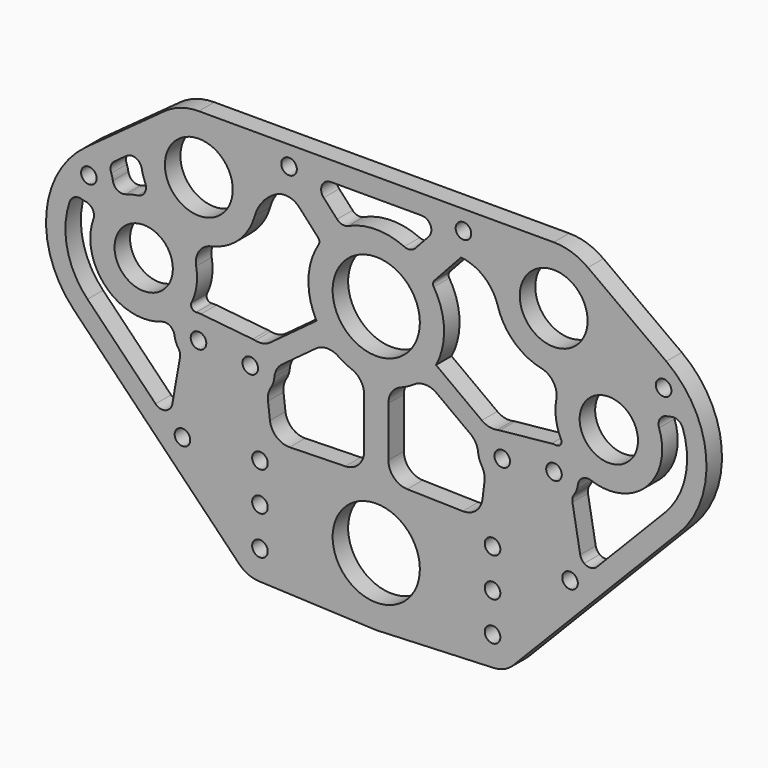
from build123d import *

# Parameters (mm, degrees)
F0_R     = 2.5527
F0_R_2   = 14.2875
F0_R_3   = 9.5504
F0_R_4   = 11.1125
F1_DEPTH = 6.35
F3_DEPTH = 6.351
F4_R     = 6.35


with BuildPart() as f1:
    # F0 (on Front) → F1 (new body)
    with BuildSketch(Plane.XZ):
        with BuildLine():
            Line((-99.147001, 36.428507), (-44.929465, -19.339581))
            ThreePointArc((-44.929465, -19.339581), (-41.990137, -21.394392), (-38.499317, -22.216626))
            Line((-38.499317, -22.216626), (-0.931741, -23.792961))
            ThreePointArc((-0.931741, -23.792961), (0, -23.8125), (0.931741, -23.792961))
            Line((0.931741, -23.792961), (38.499317, -22.216626))
            ThreePointArc((38.499317, -22.216626), (41.990137, -21.394392), (44.929465, -19.339581))
            Line((44.929465, -19.339581), (99.147001, 36.428507))
            ThreePointArc((99.147001, 36.428507), (108.088235, 61.457145), (95.037742, 84.610178))
            Line((95.037742, 84.610178), (69.349048, 103.313963))
            ThreePointArc((69.349048, 103.313963), (64.032071, 106.028196), (58.136106, 106.963559))
            Line((58.136106, 106.963559), (-58.136106, 106.963559))
            ThreePointArc((-58.136106, 106.963559), (-64.032071, 106.028196), (-69.349048, 103.313963))
            Line((-69.349048, 103.313963), (-95.037742, 84.610178))
            ThreePointArc((-95.037742, 84.610178), (-108.088235, 61.457145), (-99.147001, 36.428507))
        make_face()
        with Locations((-38.1, -12.7)):
            Circle(F0_R, mode=Mode.SUBTRACT)
        with Locations((-38.1, 0)):
            Circle(F0_R, mode=Mode.SUBTRACT)
        with Locations((0, -1.5875)):
            Circle(F0_R_2, mode=Mode.SUBTRACT)
        with Locations((-63.5, 11.149014)):
            Circle(F0_R, mode=Mode.SUBTRACT)
        with Locations((-58.239488, 40.776988)):
            Circle(F0_R, mode=Mode.SUBTRACT)
        with Locations((-38.1, 12.7)):
            Circle(F0_R, mode=Mode.SUBTRACT)
        with Locations((-41.275, 39.0525)):
            Circle(F0_R, mode=Mode.SUBTRACT)
        with Locations((38.1, -12.7)):
            Circle(F0_R, mode=Mode.SUBTRACT)
        with Locations((38.1, 0)):
            Circle(F0_R, mode=Mode.SUBTRACT)
        with Locations((38.1, 12.7)):
            Circle(F0_R, mode=Mode.SUBTRACT)
        with Locations((41.275, 39.0525)):
            Circle(F0_R, mode=Mode.SUBTRACT)
        with Locations((63.5, 11.149014)):
            Circle(F0_R, mode=Mode.SUBTRACT)
        with Locations((58.239488, 40.776988)):
            Circle(F0_R, mode=Mode.SUBTRACT)
        with Locations((-76.2, 58.7375)):
            Circle(F0_R_3, mode=Mode.SUBTRACT)
        with Locations((0, 69.5325)):
            Circle(F0_R_2, mode=Mode.SUBTRACT)
        with Locations((-94.160512, 76.698012)):
            Circle(F0_R, mode=Mode.SUBTRACT)
        with Locations((-58.136106, 87.913559)):
            Circle(F0_R_4, mode=Mode.SUBTRACT)
        with Locations((-28.575, 100.613559)):
            Circle(F0_R, mode=Mode.SUBTRACT)
        with Locations((76.2, 58.7375)):
            Circle(F0_R_3, mode=Mode.SUBTRACT)
        with Locations((28.575, 100.613559)):
            Circle(F0_R, mode=Mode.SUBTRACT)
        with Locations((58.136106, 87.913559)):
            Circle(F0_R_4, mode=Mode.SUBTRACT)
        with Locations((94.160512, 76.698012)):
            Circle(F0_R, mode=Mode.SUBTRACT)
    extrude(amount=F1_DEPTH)

    # F2 (on face) → F3 (cut, through all)
    with BuildSketch(Plane.XZ.offset(6.35)):
        with BuildLine():
            ThreePointArc((-54.105932, 69.294746), (-58.049456, 66.605722), (-59.00587, 61.929451))
            ThreePointArc((-59.00587, 61.929451), (-58.879386, 56.324414), (-60.533091, 50.967391))
            ThreePointArc((-60.533091, 50.967391), (-60.420217, 49.364361), (-58.96566, 48.681201))
            ThreePointArc((-58.96566, 48.681201), (-58.201029, 48.714395), (-57.436755, 48.673793))
            Line((-57.436755, 48.673793), (-40.472268, 46.949305))
            ThreePointArc((-40.472268, 46.949305), (-40.064126, 46.897096), (-39.659239, 46.823808))
            ThreePointArc((-39.659239, 46.823808), (-37.008517, 46.837788), (-34.594457, 47.932702))
            Line((-34.594457, 47.932702), (-19.581242, 59.019384))
            ThreePointArc((-19.581242, 59.019384), (-22.213364, 70.251589), (-18.860298, 81.290042))
            ThreePointArc((-18.860298, 81.290042), (-18.62682, 82.277263), (-19.038805, 83.204294))
            Line((-19.038805, 83.204294), (-25.19012, 89.895086))
            ThreePointArc((-25.19012, 89.895086), (-28.745994, 91.848043), (-32.758506, 91.249687))
            ThreePointArc((-32.758506, 91.249687), (-37.182355, 87.688723), (-39.824343, 82.661717))
            ThreePointArc((-39.824343, 82.661717), (-45.118444, 74.005181), (-54.105932, 69.294746))
        make_face()
        with BuildLine():
            Line((-15.809068, 53.911233), (-33.536791, 40.819992))
            ThreePointArc((-33.536791, 40.819992), (-33.672161, 36.771984), (-35.787127, 33.317768))
            Line((-35.787127, 33.317768), (-34.131261, 19.574083))
            Line((-34.131261, 19.574083), (-3.96875, 20.280276))
            Line((-3.96875, 20.280276), (-3.96875, 47.664724))
            ThreePointArc((-3.96875, 47.664724), (-10.370402, 49.875303), (-15.809068, 53.911233))
        make_face()
        with BuildLine():
            ThreePointArc((57.436755, 48.673793), (58.201029, 48.714395), (58.96566, 48.681201))
            ThreePointArc((58.96566, 48.681201), (60.420217, 49.364361), (60.533091, 50.967391))
            ThreePointArc((60.533091, 50.967391), (58.879386, 56.324414), (59.00587, 61.929451))
            ThreePointArc((59.00587, 61.929451), (58.049456, 66.605722), (54.105932, 69.294746))
            ThreePointArc((54.105932, 69.294746), (45.118444, 74.005181), (39.824343, 82.661717))
            ThreePointArc((39.824343, 82.661717), (35.347233, 89.537174), (27.783257, 92.715645))
            Line((27.783257, 92.715645), (19.038805, 83.204294))
            ThreePointArc((19.038805, 83.204294), (18.62682, 82.277263), (18.860298, 81.290042))
            ThreePointArc((18.860298, 81.290042), (22.213364, 70.251589), (19.581242, 59.019384))
            Line((19.581242, 59.019384), (34.594457, 47.932702))
            ThreePointArc((34.594457, 47.932702), (37.008517, 46.837788), (39.659239, 46.823808))
            ThreePointArc((39.659239, 46.823808), (40.064126, 46.897096), (40.472268, 46.949305))
            Line((40.472268, 46.949305), (57.436755, 48.673793))
        make_face()
        with BuildLine():
            ThreePointArc((35.787127, 33.317768), (33.672161, 36.771984), (33.536791, 40.819992))
            Line((33.536791, 40.819992), (15.809068, 53.911233))
            ThreePointArc((15.809068, 53.911233), (10.370402, 49.875303), (3.96875, 47.664724))
            Line((3.96875, 47.664724), (3.96875, 20.280276))
            Line((3.96875, 20.280276), (34.131261, 19.574083))
            Line((34.131261, 19.574083), (35.787127, 33.317768))
        make_face()
        with BuildLine():
            ThreePointArc((-12.823929, 90.517836), (-11.120177, 89.555548), (-9.175788, 89.774919))
            ThreePointArc((-9.175788, 89.774919), (0, 91.7575), (9.175788, 89.774919))
            ThreePointArc((9.175788, 89.774919), (11.120177, 89.555548), (12.823929, 90.517836))
            Line((12.823929, 90.517836), (17.21104, 95.289702))
            ThreePointArc((17.21104, 95.289702), (17.780893, 98.714882), (14.873726, 100.613559))
            Line((14.873726, 100.613559), (-14.873726, 100.613559))
            ThreePointArc((-14.873726, 100.613559), (-17.780893, 98.714882), (-17.21104, 95.289702))
            Line((-17.21104, 95.289702), (-12.823929, 90.517836))
        make_face()
        with BuildLine():
            ThreePointArc((-95.230985, 68.833027), (-95.874701, 68.947821), (-96.506784, 69.115208))
            ThreePointArc((-96.506784, 69.115208), (-98.880202, 68.914341), (-100.446041, 67.119458))
            ThreePointArc((-100.446041, 67.119458), (-101.23998, 53.158334), (-94.594025, 40.854895))
            Line((-94.594025, 40.854895), (-72.304972, 17.928404))
            ThreePointArc((-72.304972, 17.928404), (-70.300472, 16.978269), (-68.163203, 17.572288))
            ThreePointArc((-68.163203, 17.572288), (-68.137241, 17.591056), (-68.111204, 17.609719))
            ThreePointArc((-68.111204, 17.609719), (-67.271261, 18.498569), (-66.829578, 19.638953))
            Line((-66.829578, 19.638953), (-64.288231, 33.952191))
            ThreePointArc((-64.288231, 33.952191), (-64.310338, 35.174922), (-64.792953, 36.298595))
            ThreePointArc((-64.792953, 36.298595), (-65.647349, 37.926111), (-66.104473, 39.706515))
            ThreePointArc((-66.104473, 39.706515), (-67.60109, 41.991292), (-70.318312, 42.268365))
            ThreePointArc((-70.318312, 42.268365), (-88.565813, 46.371687), (-92.669135, 64.619188))
            ThreePointArc((-92.669135, 64.619188), (-92.946208, 67.33641), (-95.230985, 68.833027))
        make_face()
        with BuildLine():
            ThreePointArc((68.111204, 17.609719), (68.137241, 17.591056), (68.163203, 17.572288))
            ThreePointArc((68.163203, 17.572288), (70.300472, 16.978269), (72.304972, 17.928404))
            Line((72.304972, 17.928404), (94.594025, 40.854895))
            ThreePointArc((94.594025, 40.854895), (101.23998, 53.158334), (100.446041, 67.119458))
            ThreePointArc((100.446041, 67.119458), (98.880202, 68.914341), (96.506784, 69.115208))
            ThreePointArc((96.506784, 69.115208), (95.874701, 68.947821), (95.230985, 68.833027))
            ThreePointArc((95.230985, 68.833027), (92.946208, 67.33641), (92.669135, 64.619188))
            ThreePointArc((92.669135, 64.619188), (88.565813, 46.371687), (70.318312, 42.268365))
            ThreePointArc((70.318312, 42.268365), (67.60109, 41.991292), (66.104473, 39.706515))
            ThreePointArc((66.104473, 39.706515), (65.647349, 37.926111), (64.792953, 36.298595))
            ThreePointArc((64.792953, 36.298595), (64.310338, 35.174922), (64.288231, 33.952191))
            Line((64.288231, 33.952191), (66.829578, 19.638953))
            ThreePointArc((66.829578, 19.638953), (67.271261, 18.498569), (68.111204, 17.609719))
        make_face()
        with BuildLine():
            Line((-81.844851, 86.361016), (-85.759901, 83.510492))
            ThreePointArc((-85.759901, 83.510492), (-86.947023, 81.805047), (-86.825202, 79.730688))
            ThreePointArc((-86.825202, 79.730688), (-86.497301, 78.76661), (-86.295527, 77.768485))
            ThreePointArc((-86.295527, 77.768485), (-84.79891, 75.483708), (-82.081688, 75.206635))
            ThreePointArc((-82.081688, 75.206635), (-80.184933, 75.765329), (-78.237232, 76.106332))
            ThreePointArc((-78.237232, 76.106332), (-75.862953, 77.662755), (-75.682673, 80.495978))
            ThreePointArc((-75.682673, 80.495978), (-76.373197, 82.408016), (-76.856039, 84.382751))
            ThreePointArc((-76.856039, 84.382751), (-78.80567, 86.745704), (-81.844851, 86.361016))
        make_face()
    extrude(amount=-F3_DEPTH, mode=Mode.SUBTRACT)

    # F4
    f4_edges = [f1.edges().sort_by_distance(p)[0] for p in [
        (-15.809068, -3.175, 53.911233),
        (-33.536791, -3.175, 40.819992),
        (-35.787127, -3.175, 33.317768),
        (-3.96875, -3.175, 47.664724),
        (-3.96875, -3.175, 20.280276),
        (-34.131261, -3.175, 19.574083),
        (3.96875, -3.175, 20.280276),
        (3.96875, -3.175, 47.664724),
        (15.809068, -3.175, 53.911233),
        (33.536791, -3.175, 40.819992),
        (35.787127, -3.175, 33.317768),
        (34.131261, -3.175, 19.574083),
    ]]
    fillet(f4_edges, radius=F4_R)


solid = f1.part
